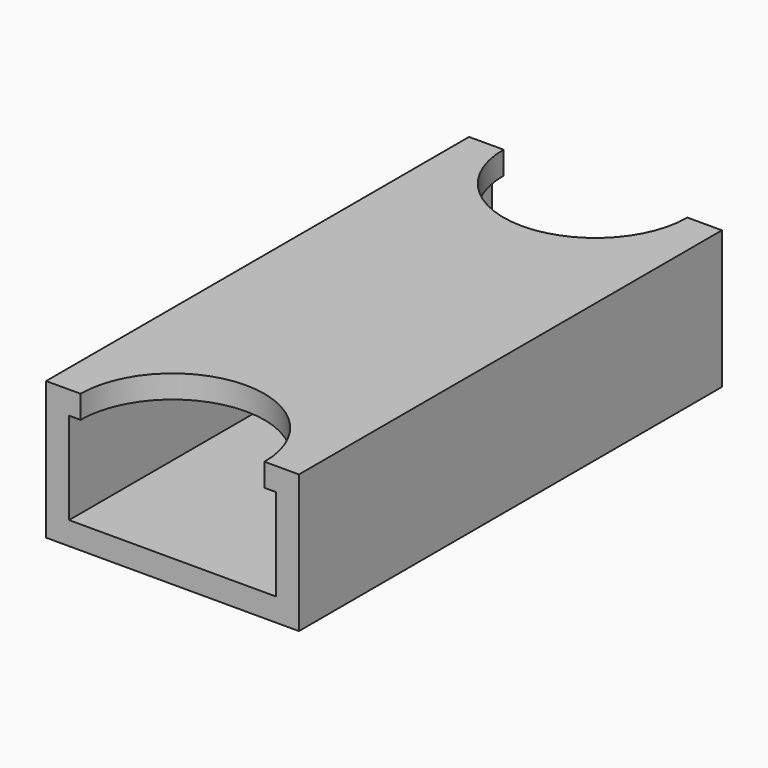
from build123d import *

# Parameters (mm, degrees)
F0_W     = 11
F0_H     = 23
F1_DEPTH = 6
F2_W     = 9
F2_H     = 4
F3_DEPTH = 23.001
F5_DEPTH = 1.5


with BuildPart() as f1:
    # F0 (on Top) → F1 (new body)
    with BuildSketch(Plane.XY):
        Rectangle(F0_W, F0_H)
    extrude(amount=F1_DEPTH)

    # F2 (on face) → F3 (cut, through all)
    with BuildSketch(Plane.XZ.offset(11.5)):
        with Locations((0, 3)):
            Rectangle(F2_W, F2_H)
    extrude(amount=-F3_DEPTH, mode=Mode.SUBTRACT)

    # F4 (on face) → F5 (cut)
    with BuildSketch(Plane.XY.offset(6)):
        with BuildLine():
            Line((4, 11.5), (-4, 11.5))
            ThreePointArc((-4, 11.5), (0, 7.5), (4, 11.5))
        make_face()
        with BuildLine():
            ThreePointArc((4, -11.5), (0, -7.5), (-4, -11.5))
            Line((-4, -11.5), (4, -11.5))
        make_face()
    extrude(amount=-F5_DEPTH, mode=Mode.SUBTRACT)


solid = f1.part
